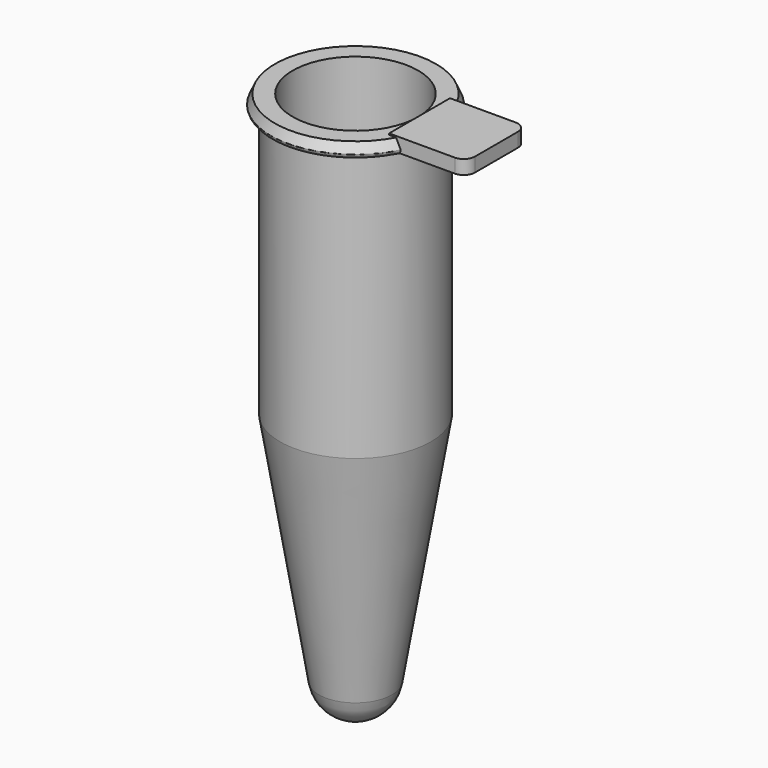
from build123d import *

# Parameters (mm, degrees)
PAD003_DEPTH = 1


with BuildPart() as hinge001:
    # Sketch007 → Pad003 (new body)
    with BuildSketch(Plane.XY):
        with BuildLine():
            Line((10, 0), (10, 1.9))
            ThreePointArc((10, 1.9), (9.787661, 2.445156), (9.261032, 2.7))
            Line((4.547651, 2.7), (9.261032, 2.7))
            Line((4.547651, 0), (4.547651, 2.7))
            Line((4.547651, 0), (4.547651, -2.7))
            Line((4.547651, -2.7), (9.228747, -2.7))
            ThreePointArc((9.228747, -2.7), (9.775939, -2.45576), (10, -1.9))
            Line((10, 0), (10, -1.9))
        make_face()
    extrude(amount=PAD003_DEPTH)


with BuildPart() as hinge001_1:
    # Body007 placement: moved
    add(hinge001.part.moved(Location((0, 0, 38))))


with BuildPart() as body_w_hinge001:
    # Sketch005 → Revolution002 (revolve)
    with BuildSketch(Plane.XZ):
        with BuildLine():
            Line((0, 0), (0, 1.1))
            ThreePointArc((0, 1.1), (1.180458, 1.533416), (1.8, 2.627718))
            Line((1.8, 2.627718), (4.45, 18.712917))
            Line((4.45, 18.712917), (4.45, 38.9))
            Line((4.45, 38.9), (5.714157, 38.9))
            Line((5.714157, 38.9), (6.011811, 38.234338))
            ThreePointArc((5.716101, 37.9), (5.923028, 38.014921), (6.011811, 38.234338))
            Line((5.35, 37.9), (5.716101, 37.9))
            Line((5.35, 18.9), (5.35, 37.9))
            Line((2.599788, 2.206524), (5.35, 18.9))
            ThreePointArc((0, 0), (1.704967, 0.625994), (2.599788, 2.206524))
        make_face()
    revolve(axis=Axis((0, 0, 0), (0, 0, 1)))

    # Fusion002: union Hinge001
    add(hinge001_1.part)


solid = body_w_hinge001.part
